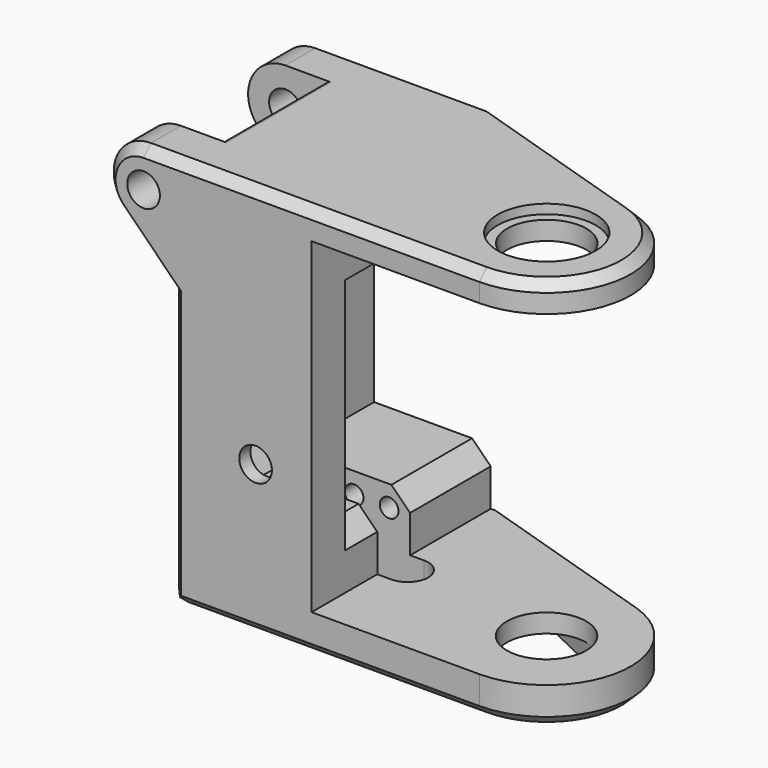
from build123d import *

# Parameters (mm, degrees)
SKETCH016_R            = 4.25
PAD015_DEPTH           = 30
PAD014_DEPTH           = 3
PRISM008_DEPTH         = 10
PRISM008_ROLL_ANGLE    = 90
PAD011_DEPTH           = 15
SKETCH010_R            = 1
PAD010_DEPTH           = 22.5
CYLINDER017_R          = 4.25
CYLINDER017_DEPTH      = 10
CYLINDER016_R          = 5.25
CYLINDER016_DEPTH      = 10
CYLINDER014_R          = 1.75
CYLINDER014_DEPTH      = 36
CYLINDER014_ROLL_ANGLE = -90
PAD004_DEPTH           = 5
CHAMFER002_SIZE        = 1
CYLINDER012_R          = 1.75
CYLINDER012_DEPTH      = 11
CYLINDER012_ROLL_ANGLE = 90
CYLINDER013_R          = 5.5
CYLINDER013_DEPTH      = 14
CYLINDER013_ROLL_ANGLE = -90
BOX010_W               = 35
BOX010_H               = 60
BOX010_DEPTH           = 35
PAD003_DEPTH           = 42
FILLET002_R            = 0.5
CHAMFER003_SIZE        = 1
CHAMFER006_SIZE        = 2
CHAMFER007_SIZE        = 1


with BuildPart() as pad015:
    # Sketch016 → Pad015 (new body)
    with BuildSketch(Plane(origin=(23.25, 34, -10), x_dir=(-0.996195, -0.087156, 0), z_dir=(0, 0, 1))):
        with Locations((47, 7)):
            Circle(SKETCH016_R)
    extrude(amount=PAD015_DEPTH)


with BuildPart() as fusion011:
    # Sketch014 → Pad014 (new body)
    with BuildSketch(Plane(origin=(23.25, 34, -10), x_dir=(-0.996195, -0.087156, 0), z_dir=(0, 0, 1))):
        with BuildLine():
            ThreePointArc((49.709474, 10.274332), (43.52198, 9.442514), (44.839693, 3.340003))
            Line((44.839693, 3.340003), (61.15095, -6.287705))
            ThreePointArc((61.15095, -6.287705), (64.799282, -5.499923), (64.301984, -1.800786))
            Line((49.709474, 10.274332), (64.301984, -1.800786))
        make_face()
    extrude(amount=PAD014_DEPTH)

    # Fusion011: union Pad015
    add(pad015.part)


with BuildPart() as fake_axis_nut_room:
    # Prism008 → Prism008 (new body)
    with BuildSketch(Plane.XY):
        Polygon((3.2, 0), (1.6, 2.771281), (-1.6, 2.771281), (-3.2, 0), (-1.6, -2.771281), (1.6, -2.771281), align=None)
    extrude(amount=PRISM008_DEPTH)


with BuildPart() as fake_axis_nut_room_1:
    # Prism008 roll: moved
    add(fake_axis_nut_room.part.rotate(Axis((0, 0, 0), (1, 0, 0)), PRISM008_ROLL_ANGLE))


with BuildPart() as fake_axis_nut_room_2:
    # Prism008 placement: moved
    add(fake_axis_nut_room_1.part.moved(Location((-47, 25.5, 7))))


with BuildPart() as pad011:
    # Sketch011 → Pad011 (new body)
    with BuildSketch(Plane(origin=(0, 0, -10), x_dir=(1, 0, 0), z_dir=(0, 0, -1))):
        with BuildLine():
            ThreePointArc((-48.5, -22.8), (-50.7, -25), (-48.5, -27.2))
            Line((-48.5, -27.2), (-39.5, -27.2))
            ThreePointArc((-39.5, -27.2), (-37.3, -25), (-39.5, -22.8))
            Line((-48.5, -22.8), (-39.5, -22.8))
        make_face()
    extrude(amount=-PAD011_DEPTH)


with BuildPart() as pad010:
    # Sketch010 → Pad010 (new body)
    with BuildSketch(Plane(origin=(0, 41, 0), x_dir=(-1, 0, 0), z_dir=(0, 1, 0))):
        with Locations((43.25, 26.75)):
            Circle(SKETCH010_R)
        with Locations((50.75, 26.75)):
            Circle(SKETCH010_R)
        with Locations((43.25, -1.25)):
            Circle(SKETCH010_R)
        with Locations((50.75, -1.25)):
            Circle(SKETCH010_R)
        with Locations((47, -1.25)):
            Circle(SKETCH010_R)
        with Locations((47, 26.75)):
            Circle(SKETCH010_R)
        Polygon((40.5, 24.5), (53.5, 24.5), (53.5, 1), (40.5, 1), (30.5, 1), (30.5, 24.5), align=None)
    extrude(amount=-PAD010_DEPTH)


with BuildPart() as cylinder017:
    # Cylinder017 → Cylinder017 (new body)
    with BuildSketch(Plane.XY.offset(-5)):
        Circle(CYLINDER017_R)
    extrude(amount=CYLINDER017_DEPTH)


with BuildPart() as fusion008:
    # Cylinder016 → Cylinder016 (new body)
    with BuildSketch(Plane.XY):
        Circle(CYLINDER016_R)
    extrude(amount=CYLINDER016_DEPTH)

    # Fusion008: union Cylinder017
    add(cylinder017.part)


with BuildPart() as fusion008_1:
    # Fusion008 placement: moved
    add(fusion008.part.moved(Location((-23, 23, 32))))


with BuildPart() as cilindro014:
    # Cylinder014 → Cylinder014 (new body)
    with BuildSketch(Plane.XY):
        Circle(CYLINDER014_R)
    extrude(amount=CYLINDER014_DEPTH)


with BuildPart() as cilindro014_1:
    # Cylinder014 roll: moved
    add(cilindro014.part.rotate(Axis((0, 0, 0), (1, 0, 0)), CYLINDER014_ROLL_ANGLE))


with BuildPart() as cilindro014_2:
    # Cylinder014 placement: moved
    add(cilindro014_1.part.moved(Location((-59, 8, 29))))


with BuildPart() as pad004:
    # Sketch004 → Pad004 (new body)
    with BuildSketch(Plane(origin=(0, 14, 0), x_dir=(-1, 0, 0), z_dir=(0, 1, 0))):
        with BuildLine():
            ThreePointArc((61.828427, 26.171573), (62.695518, 30.530734), (59, 33))
            Line((59, 33), (54, 33))
            Line((54, 33), (54, 18.343146))
            Line((54, 18.343146), (61.828427, 26.171573))
        make_face()
    extrude(amount=PAD004_DEPTH)


with BuildPart() as chamfer002:
    # Clone006 base: copy of Pad004
    add(pad004.part)


with BuildPart() as chamfer002_1:
    # Clone006 placement: moved
    add(chamfer002.part.moved(Location((0, 19, 0))))

    # Fusion006: union Pad004
    add(pad004.part)

    # Chamfer002
    chamfer002_edges = [chamfer002_1.edges().sort_by_distance(p)[0] for p in [
        (-62.695518, 14, 30.530734),
        (-62.695518, 38, 30.530734),
    ]]
    chamfer(chamfer002_edges, length=CHAMFER002_SIZE)


with BuildPart() as cilindro012:
    # Cylinder012 → Cylinder012 (new body)
    with BuildSketch(Plane.XY):
        Circle(CYLINDER012_R)
    extrude(amount=CYLINDER012_DEPTH)


with BuildPart() as cilindro012_1:
    # Cylinder012 roll: moved
    add(cilindro012.part.rotate(Axis((0, 0, 0), (1, 0, 0)), CYLINDER012_ROLL_ANGLE))


with BuildPart() as cilindro012_2:
    # Cylinder012 placement: moved
    add(cilindro012_1.part.moved(Location((-47, 23, 7))))


with BuildPart() as cilindro013:
    # Cylinder013 → Cylinder013 (new body)
    with BuildSketch(Plane.XY):
        Circle(CYLINDER013_R)
    extrude(amount=CYLINDER013_DEPTH)


with BuildPart() as cilindro013_1:
    # Cylinder013 roll: moved
    add(cilindro013.part.rotate(Axis((0, 0, 0), (1, 0, 0)), CYLINDER013_ROLL_ANGLE))


with BuildPart() as cilindro013_2:
    # Cylinder013 placement: moved
    add(cilindro013_1.part.moved(Location((-59, 19, 29))))


with BuildPart() as cubo010:
    # Box010 → Box010 (new body)
    with BuildSketch(Plane(origin=(-41, 0, -5), x_dir=(1, 0, 0), z_dir=(0, 0, 1))):
        with Locations((17.5, 30)):
            Rectangle(BOX010_W, BOX010_H)
    extrude(amount=BOX010_DEPTH)


with BuildPart() as bracket:
    # Sketch003 → Pad003 (new body)
    with BuildSketch(Plane.XY.offset(-9)):
        with BuildLine():
            ThreePointArc((-22.999967, 14), (-14.106152, 21.621786), (-20.276052, 31.577885))
            Line((-40.499967, 38), (-20.276052, 31.577885))
            Line((-55.999967, 38), (-40.499967, 38))
            Line((-55.999967, 14), (-55.999967, 38))
            Line((-22.999967, 14), (-55.999967, 14))
        make_face()
    extrude(amount=PAD003_DEPTH)

    # Cut007: cut Cubo010
    add(cubo010.part, mode=Mode.SUBTRACT)

    # Cut008: cut Cilindro013
    add(cilindro013_2.part, mode=Mode.SUBTRACT)

    # Fillet002
    fillet002_edges = [bracket.edges().sort_by_distance(p)[0] for p in [
        (-55.999967, 26, 24.390249),
        (-55.225083, 26, 33),
    ]]
    fillet(fillet002_edges, radius=FILLET002_R)

    # Chamfer003
    chamfer003_edges = [bracket.edges().sort_by_distance(p)[0] for p in [
        (-55.999967, 14, 12),
        (-55.999967, 26, -9),
        (-55.999967, 38, 12),
        (-39.499967, 14, 33),
        (-14.106152, 21.621786, 33),
        (-48.249967, 38, 33),
        (-48.249967, 38, -9),
    ]]
    chamfer(chamfer003_edges, length=CHAMFER003_SIZE)

    # Cut010: cut Cilindro012
    add(cilindro012_2.part, mode=Mode.SUBTRACT)

    # Fusion007: union Chamfer002
    add(chamfer002_1.part)

    # Cut011: cut Cilindro014
    add(cilindro014_2.part, mode=Mode.SUBTRACT)

    # Cut012: cut Fusion008
    add(fusion008_1.part, mode=Mode.SUBTRACT)

    # Cut015: cut Pad010
    add(pad010.part, mode=Mode.SUBTRACT)

    # Chamfer006
    chamfer006_edges = [bracket.edges().sort_by_distance(p)[0] for p in [
        (-41, 28.25, 1),
    ]]
    chamfer(chamfer006_edges, length=CHAMFER006_SIZE)

    # Cut016: cut Pad011
    add(pad011.part, mode=Mode.SUBTRACT)

    # Chamfer007
    chamfer007_edges = [bracket.edges().sort_by_distance(p)[0] for p in [
        (-14.106152, 21.621786, -9),
    ]]
    chamfer(chamfer007_edges, length=CHAMFER007_SIZE)

    # Cut017: cut fake_axis_nut_room
    add(fake_axis_nut_room_2.part, mode=Mode.SUBTRACT)

    # Cut020: cut Fusion011
    add(fusion011.part, mode=Mode.SUBTRACT)


solid = bracket.part
